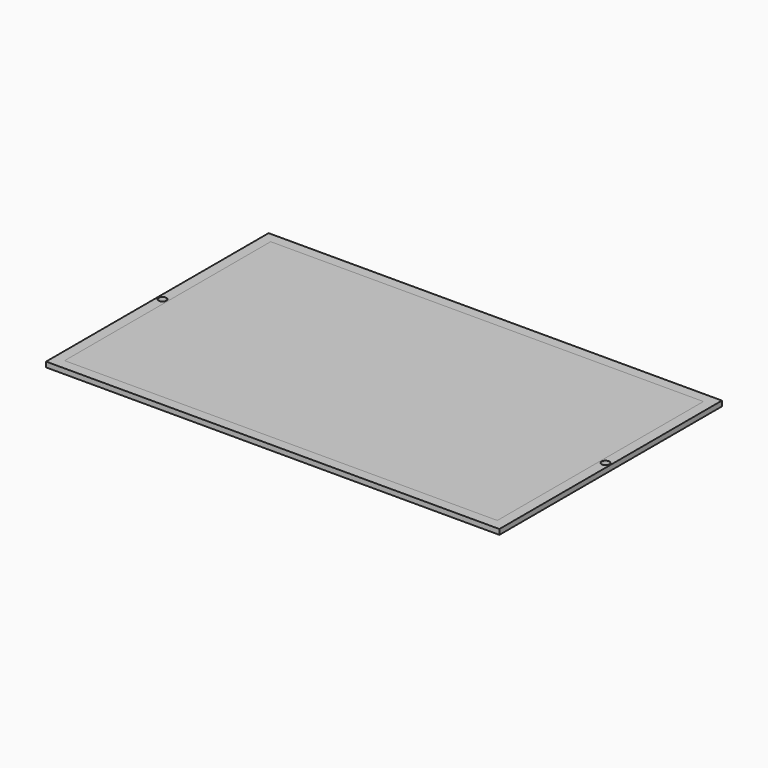
from build123d import *

# Parameters (mm, degrees)
F0_W     = 2133.6
F0_H     = 1270
F1_DEPTH = 25.4
F0_W_2   = 2235.2
F0_H_2   = 1371.6
F0_R     = 19.05
F2_DEPTH = 25.4


with BuildPart() as f1:
    # F0 (on Top) → F1 (new body)
    with BuildSketch(Plane.XY):
        Rectangle(F0_W, F0_H)
    extrude(amount=F1_DEPTH)


with BuildPart() as f2:
    # F0 (on Top) → F2 (new body)
    with BuildSketch(Plane.XY):
        Rectangle(F0_W_2, F0_H_2)
        with Locations((-1092.2, 0)):
            Circle(F0_R, mode=Mode.SUBTRACT)
        Rectangle(F0_W, F0_H, mode=Mode.SUBTRACT)
        with Locations((1092.2, 0)):
            Circle(F0_R, mode=Mode.SUBTRACT)
    extrude(amount=F2_DEPTH)


solid = Compound([f1.part, f2.part])
